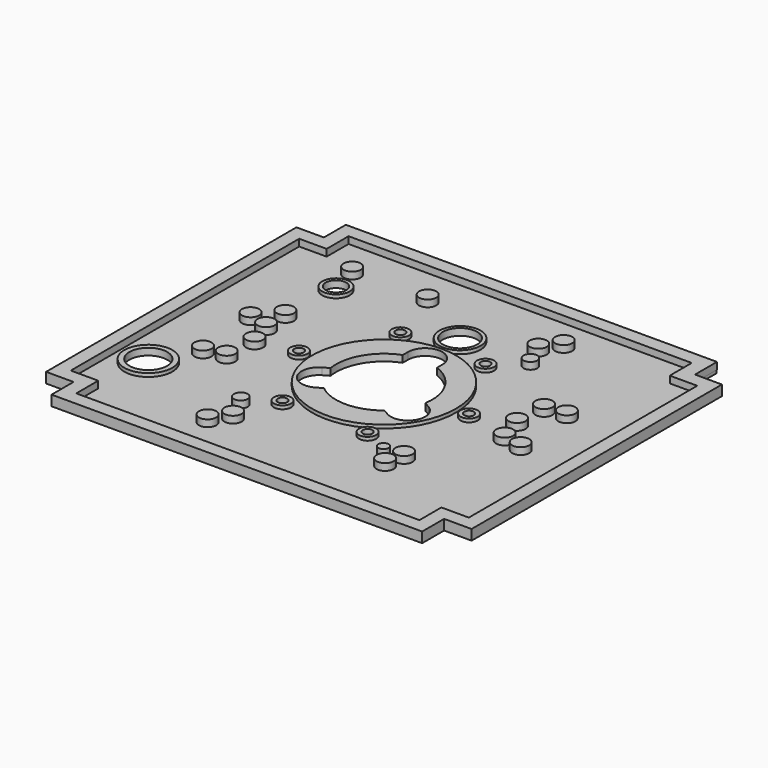
from build123d import *

# Parameters (mm, degrees)
F1_DEPTH  = 5
F3_DEPTH  = 10
F4_R      = 20
F4_R_2    = 30
F4_R_3    = 105
F4_R_4    = 12.5
F4_R_5    = 35
F5_DEPTH  = 5
F6_R      = 27.5
F6_R_2    = 7
F6_R_3    = 25
F6_R_4    = 15
F7_DEPTH  = 10
F8_R      = 12.5
F8_R_2    = 10
F8_R_3    = 7.5
F9_DEPTH  = 10
F10_R     = 12.5
F11_DEPTH = 10


with BuildPart() as f1:
    # F0 (on Top) → F1 (new body)
    with BuildSketch(Plane.XY):
        Polygon((-270, -228), (-270, -268), (270, -268), (270, -228), (310, -228), (310, 228), (270, 228), (270, 268), (-270, 268), (-270, 228), (-310, 228), (-310, -228), align=None)
    extrude(amount=F1_DEPTH)

    # F2 (on face) → F3 (join)
    with BuildSketch(Plane.XY.offset(5)):
        Polygon((-270, -228), (-270, -268), (270, -268), (270, -228), (310, -228), (310, 228), (270.789407, 228), (270.789407, 268), (-270, 268), (-270, 228), (-310, 228), (-310, -228), align=None)
        Polygon((250, 248), (250, 208), (290, 208), (290, -208), (250, -208), (250, -248), (-250, -248), (-250, -208), (-290, -208), (-290, 208), (-250, 208), (-250, 248), align=None, mode=Mode.SUBTRACT)
    extrude(amount=F3_DEPTH)

    # F4 (on face) → F5 (join)
    with BuildSketch(Plane.XY.offset(5)):
        with Locations((-190, 150)):
            Circle(F4_R)
        with Locations((0, 138.5)):
            Circle(F4_R_2)
        Circle(F4_R_3)
        with Locations((-124, 0)):
            Circle(F4_R_4)
        with Locations((-245, -123)):
            Circle(F4_R_5)
        with Locations((-62, 107.38715)):
            Circle(F4_R_4)
        with Locations((62, 107.38715)):
            Circle(F4_R_4)
        with Locations((124, 0)):
            Circle(F4_R_4)
        with Locations((62, -107.38715)):
            Circle(F4_R_4)
        with Locations((-62, -107.38715)):
            Circle(F4_R_4)
    extrude(amount=F5_DEPTH)

    # F6 (on face) → F7 (cut, through all)
    with BuildSketch(Plane.XY.offset(10)):
        with Locations((-245, -123)):
            Circle(F6_R)
        with Locations((-124, 0)):
            Circle(F6_R_2)
        with Locations((0, 138.5)):
            Circle(F6_R_3)
        with Locations((-190, 150)):
            Circle(F6_R_4)
        with Locations((-62, -107.38715)):
            Circle(F6_R_2)
        with Locations((62, -107.38715)):
            Circle(F6_R_2)
        with Locations((124, 0)):
            Circle(F6_R_2)
        with Locations((62, 107.38715)):
            Circle(F6_R_2)
        with Locations((-62, 107.38715)):
            Circle(F6_R_2)
        with BuildLine():
            Line((25, 65.383484), (25, 75))
            ThreePointArc((25, 75), (0, 100), (-25, 75))
            Line((-25, 75), (-25, 65.383484))
            ThreePointArc((-25, 65.383484), (-60.621778, 35), (-69.123758, -11.041107))
            Line((-69.123758, -11.041107), (-77.451905, -15.849365))
            ThreePointArc((-77.451905, -15.849365), (-86.60254, -50), (-52.451905, -59.150635))
            Line((-52.451905, -59.150635), (-44.123758, -54.342377))
            ThreePointArc((-44.123758, -54.342377), (0, -70), (44.123758, -54.342377))
            Line((44.123758, -54.342377), (52.451905, -59.150635))
            ThreePointArc((52.451905, -59.150635), (86.60254, -50), (77.451905, -15.849365))
            Line((77.451905, -15.849365), (69.123758, -11.041107))
            ThreePointArc((69.123758, -11.041107), (60.621778, 35), (25, 65.383484))
        make_face()
    extrude(amount=-F7_DEPTH, mode=Mode.SUBTRACT)

    # F8 (on face) → F9 (join)
    with BuildSketch(Plane.XY.offset(5)):
        with Locations((-101, -195)):
            Circle(F8_R)
        with Locations((-84, -170)):
            Circle(F8_R)
        with Locations((-179, -12)):
            Circle(F8_R)
        with Locations((-211, -66)):
            Circle(F8_R)
        with Locations((-182, -59)):
            Circle(F8_R)
        with Locations((-220, 32)):
            Circle(F8_R)
        with Locations((-191, 24)):
            Circle(F8_R)
        with Locations((-192.5, 61)):
            Circle(F8_R)
        with Locations((-200, 192)):
            Circle(F8_R)
        with Locations((-90, 192)):
            Circle(F8_R)
        with Locations((84, 176)):
            Circle(F8_R)
        with Locations((101, 201)):
            Circle(F8_R)
        with Locations((182, 64)):
            Circle(F8_R)
        with Locations((212, 68)):
            Circle(F8_R)
        with Locations((179.5, 18)):
            Circle(F8_R)
        with Locations((191, -19)):
            Circle(F8_R)
        with Locations((220, -26)):
            Circle(F8_R)
        with Locations((124, -153)):
            Circle(F8_R)
        with Locations((130, -126)):
            Circle(F8_R)
        with Locations((-99, -137)):
            Circle(F8_R_2)
        with Locations((99, 143)):
            Circle(F8_R_2)
        with Locations((104, -131)):
            Circle(F8_R_3)
    extrude(amount=F9_DEPTH)

    # F10 (on face) → F11 (join)
    with BuildSketch(Plane(origin=(0, 0, 0), x_dir=(1, 0, 0), z_dir=(0, 0, -1))):
        with Locations((-240, -153)):
            Circle(F10_R)
    extrude(amount=F11_DEPTH)


solid = f1.part
